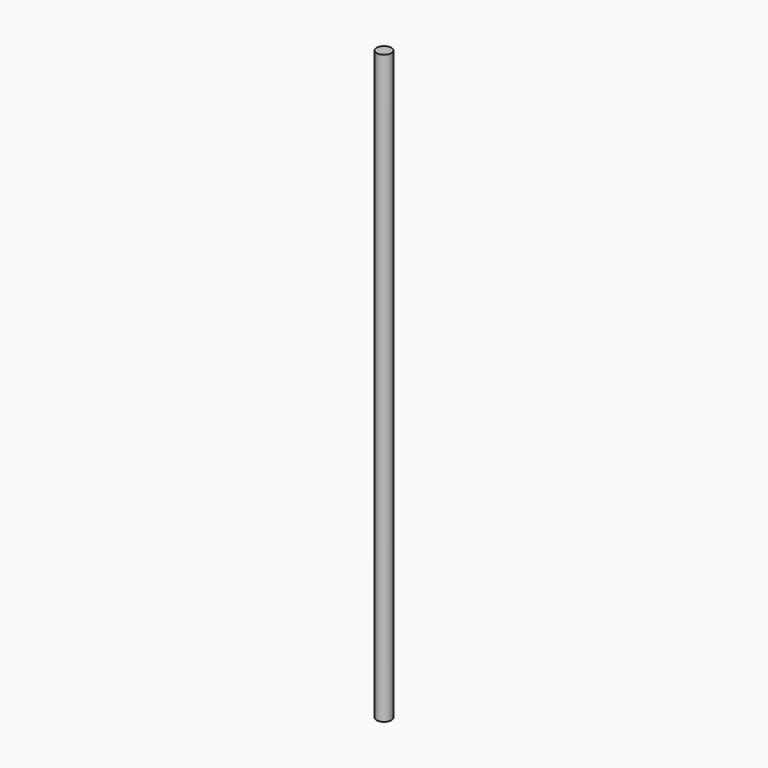
from build123d import *

# Parameters (mm, degrees)
F0_R     = 25.4
F1_DEPTH = 2032


with BuildPart() as f1:
    # F0 (on Top) → F1 (new body)
    with BuildSketch(Plane.XY):
        with Locations((-21.031251, 11.003898)):
            Circle(F0_R)
    extrude(amount=-F1_DEPTH)


solid = f1.part
